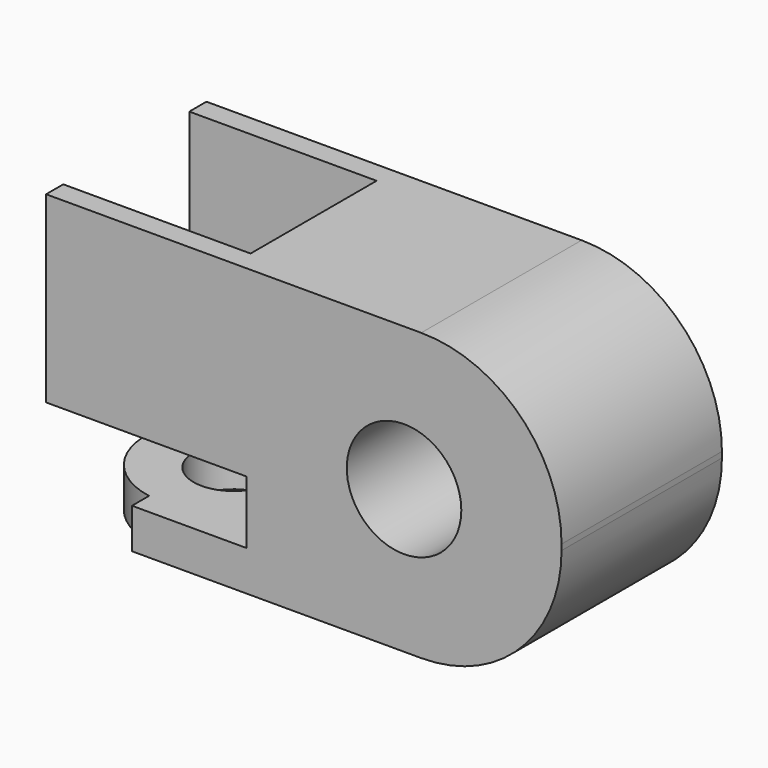
from build123d import *

# Parameters (mm, degrees)
CYLINDER241_R      = 2.8
CYLINDER241_DEPTH  = 10
BOX164_W           = 7
BOX164_H           = 10
BOX164_DEPTH       = 3
BOX161_W           = 10
BOX161_H           = 10
BOX161_DEPTH       = 2.2
BOX160_W           = 10
BOX160_H           = 5.5
BOX160_DEPTH       = 18
CHAMFER023_1_SIZE2 = 4
CHAMFER023_1_SIZE  = 17
CHAMFER023_2_SIZE2 = 0.8
CHAMFER023_2_SIZE  = 17
CYLINDER238_R      = 1.4
CYLINDER238_DEPTH  = 19
CYLINDER239_R      = 2
CYLINDER239_DEPTH  = 10
BOX159_W           = 18
BOX159_H           = 7
BOX159_DEPTH       = 10
FILLET097_R        = 4.9


with BuildPart() as zylinder243:
    # Cylinder241 → Cylinder241 (new body)
    with BuildSketch(Plane(origin=(28.5, 0, -16.5), x_dir=(1, 0, 0), z_dir=(0, 0, 1))):
        Circle(CYLINDER241_R)
    extrude(amount=CYLINDER241_DEPTH)


with BuildPart() as cut111:
    # Box164 → Box164 (new body)
    with BuildSketch(Plane(origin=(21, -5, -12), x_dir=(1, 0, 0), z_dir=(0, 0, 1))):
        with Locations((3.5, 5)):
            Rectangle(BOX164_W, BOX164_H)
    extrude(amount=BOX164_DEPTH)

    # Cut111: cut Zylinder243
    add(zylinder243.part, mode=Mode.SUBTRACT)


with BuildPart() as obj1:
    # Box161 → Box161 (new body)
    with BuildSketch(Plane(origin=(22, -5, -9.1), x_dir=(1, 0, 0), z_dir=(0, 0, 1))):
        with Locations((5, 5)):
            Rectangle(BOX161_W, BOX161_H)
    extrude(amount=BOX161_DEPTH)


with BuildPart() as chamfer023:
    # Box160 → Box160 (new body)
    with BuildSketch(Plane(origin=(21.8, -2.75, -7), x_dir=(1, 0, 0), z_dir=(0, 0, 1))):
        with Locations((5, 2.75)):
            Rectangle(BOX160_W, BOX160_H)
    extrude(amount=BOX160_DEPTH)

    # Chamfer023 1
    chamfer023_1_edges = [chamfer023.edges().sort_by_distance(p)[0] for p in [
        (21.8, 0, 11),
    ]]
    chamfer023_1_side = chamfer023.faces().sort_by_distance((21.8, 0, 2))[0]
    chamfer(chamfer023_1_edges, length=CHAMFER023_1_SIZE, length2=CHAMFER023_1_SIZE2, reference=chamfer023_1_side)

    # Chamfer023 2
    chamfer023_2_edges = [chamfer023.edges().sort_by_distance(p)[0] for p in [
        (31.8, 0, 11),
    ]]
    chamfer023_2_side = chamfer023.faces().sort_by_distance((31.8, 0, 2))[0]
    chamfer(chamfer023_2_edges, length=CHAMFER023_2_SIZE, length2=CHAMFER023_2_SIZE2, reference=chamfer023_2_side)


with BuildPart() as fusion158:
    # Cylinder238 → Cylinder238 (new body)
    with BuildSketch(Plane(origin=(28.75, 0, -11.5), x_dir=(1, 0, 0), z_dir=(0, 0, 1))):
        Circle(CYLINDER238_R)
    extrude(amount=CYLINDER238_DEPTH)

    # Fusion158: union obj1, Chamfer023
    add(obj1.part)
    add(chamfer023.part)


with BuildPart() as fusion159:
    # Cylinder239 → Cylinder239 (new body)
    with BuildSketch(Plane(origin=(37.5, 5, -5.5), x_dir=(1, 0, 0), z_dir=(0, -1, 0))):
        Circle(CYLINDER239_R)
    extrude(amount=CYLINDER239_DEPTH)

    # Fusion159: union Fusion158
    add(fusion158.part)


with BuildPart() as cut112:
    # Box159 → Box159 (new body)
    with BuildSketch(Plane(origin=(25, -3.5, -10.5), x_dir=(1, 0, 0), z_dir=(0, 0, 1))):
        with Locations((9, 3.5)):
            Rectangle(BOX159_W, BOX159_H)
    extrude(amount=BOX159_DEPTH)

    # Fillet097
    fillet097_edges = [cut112.edges().sort_by_distance(p)[0] for p in [
        (43, 0, -0.5),
        (43, 0, -10.5),
    ]]
    fillet(fillet097_edges, radius=FILLET097_R)

    # Cut109: cut Fusion159
    add(fusion159.part, mode=Mode.SUBTRACT)

    # Cut112: cut Cut111
    add(cut111.part, mode=Mode.SUBTRACT)


solid = cut112.part
